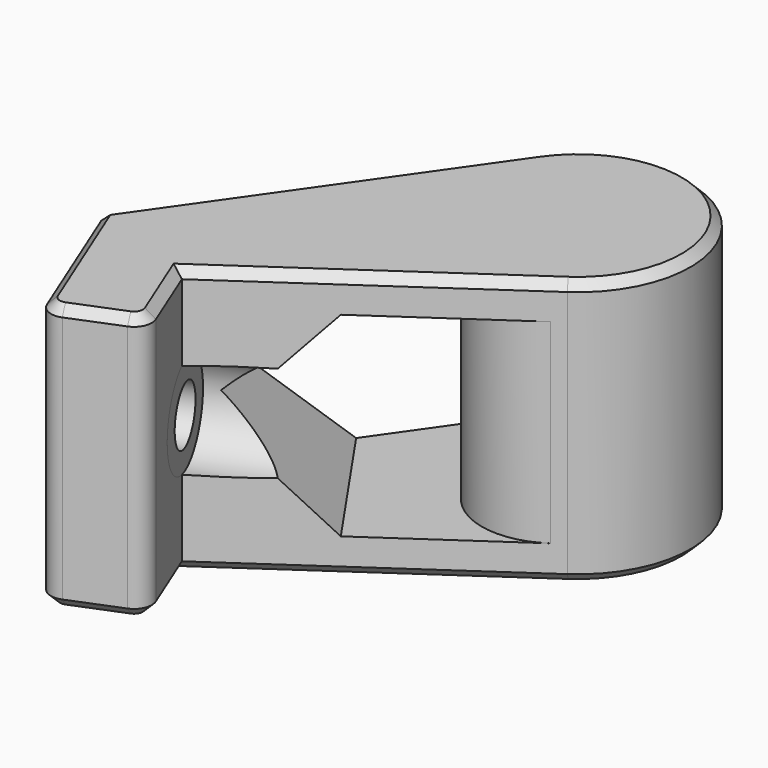
from build123d import *

# Parameters (mm, degrees)
PAD_DEPTH       = 30
POCKET_DEPTH    = 42.067391
FILLET_R        = 8.5
SKETCH002_R     = 3.2
POCKET001_DEPTH = 56.997477
SKETCH003_R     = 5.5
POCKET002_DEPTH = 46.997477
FILLET001_R     = 2
CHAMFER_SIZE    = 1


with BuildPart() as part:
    # Sketch → Pad (new body)
    with BuildSketch(Plane.XY):
        with BuildLine():
            Line((33.560053, 32.310668), (5.525773, 13.017904))
            Line((5.525773, 13.017904), (9.271839, 3.746066))
            Line((9.271839, 3.746066), (0, 0))
            Line((0, 0), (-6.986015, 17.290994))
            Line((-6.986015, 17.290994), (15.957042, 50.057076))
            ThreePointArc((33.560053, 32.310668), (35.376884, 51.716409), (15.957042, 50.057076))
        make_face()
    extrude(amount=PAD_DEPTH)

    # Sketch001 (on Face1 of Pad) → Pocket (cut, through all)
    with BuildSketch(Plane(origin=(-4.303566, 6.253504, 0), x_dir=(0.823779, 0.566912, 0), z_dir=(0.566912, -0.823779, 0))):
        Polygon((25.963349, 4), (14.963349, 15), (25.963349, 26), (35.963349, 26), (35.963349, 4), align=None)
    extrude(amount=-POCKET_DEPTH, mode=Mode.SUBTRACT)

    # Fillet
    fillet_edges = [part.edges().sort_by_distance(p)[0] for p in [
        (12.55333, 45.196071, 15),
        (25.322268, 26.64155, 15),
    ]]
    fillet(fillet_edges, radius=FILLET_R)

    # Sketch002 (on Face15 of Fillet) → Pocket001 (cut, through all)
    with BuildSketch(Plane(origin=(0, 0, 0), x_dir=(0.374607, -0.927184, 0), z_dir=(-0.927184, -0.374607, 0))):
        with Locations((-11, 15)):
            Circle(SKETCH002_R)
    extrude(amount=-POCKET001_DEPTH, mode=Mode.SUBTRACT)

    # Sketch003 (on Face5 of Pocket001) → Pocket002 (cut, through all)
    with BuildSketch(Plane(origin=(9.271839, 3.746066, 0), x_dir=(-0.374607, 0.927184, 0), z_dir=(0.927184, 0.374607, 0))):
        with Locations((11, 15)):
            Circle(SKETCH003_R)
    extrude(amount=POCKET002_DEPTH, mode=Mode.SUBTRACT)

    # Fillet001
    fillet001_edges = [part.edges().sort_by_distance(p)[0] for p in [
        (9.271839, 3.746066, 15),
        (0, 0, 15),
    ]]
    fillet(fillet001_edges, radius=FILLET001_R)

    # Chamfer
    chamfer_edges = [part.edges().sort_by_distance(p)[0] for p in [
        (7.024199, 9.309169, 0),
        (8.509267, 4.069758, 0),
        (19.542913, 22.664286, 0),
        (4.635919, 1.873033, 0),
        (35.376884, 51.716409, 0),
        (0.323692, 0.762571, 0),
        (4.485514, 33.674035, 0),
        (-3.867614, 9.572681, 0),
        (7.024199, 9.309169, 30),
        (8.509267, 4.069758, 30),
        (19.542913, 22.664286, 30),
        (4.635919, 1.873033, 30),
        (35.376884, 51.716409, 30),
        (0.323692, 0.762571, 30),
        (4.485514, 33.674035, 30),
        (-3.867614, 9.572681, 30),
    ]]
    chamfer(chamfer_edges, length=CHAMFER_SIZE)


solid = part.part
